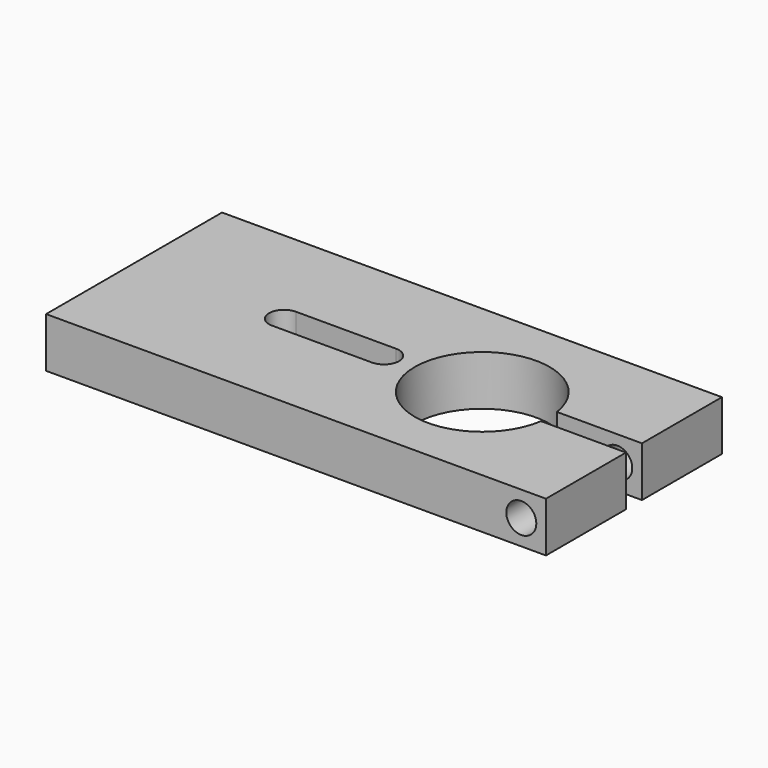
from build123d import *

# Parameters (mm, degrees)
F1_DEPTH = 5
F3_D     = 3


with BuildPart() as f1:
    # F0 (on Top) → F1 (new body)
    with BuildSketch(Plane.XY):
        with BuildLine():
            Line((25, 11), (-25, 11))
            Line((-25, 11), (-25, -11))
            Line((-25, -11), (25, -11))
            Line((25, -11), (25, -1))
            Line((25, -1), (16.5, -1))
            ThreePointArc((16.5, -1), (3.074485, 0), (16.5, 1))
            Line((16.5, 1), (25, 1))
            Line((25, 1), (25, 11))
        make_face()
        with BuildLine():
            ThreePointArc((-10, -1.5), (-11.5, 0), (-10, 1.5))
            Line((-10, 1.5), (0, 1.5))
            ThreePointArc((0, 1.5), (1.5, 0), (0, -1.5))
            Line((0, -1.5), (-10, -1.5))
        make_face(mode=Mode.SUBTRACT)
    extrude(amount=F1_DEPTH)

    # F3 (through all)
    with Locations(Plane.XZ.offset(11)):
        with Locations((22.532951, 2.5)):
            Hole(F3_D / 2)


solid = f1.part
